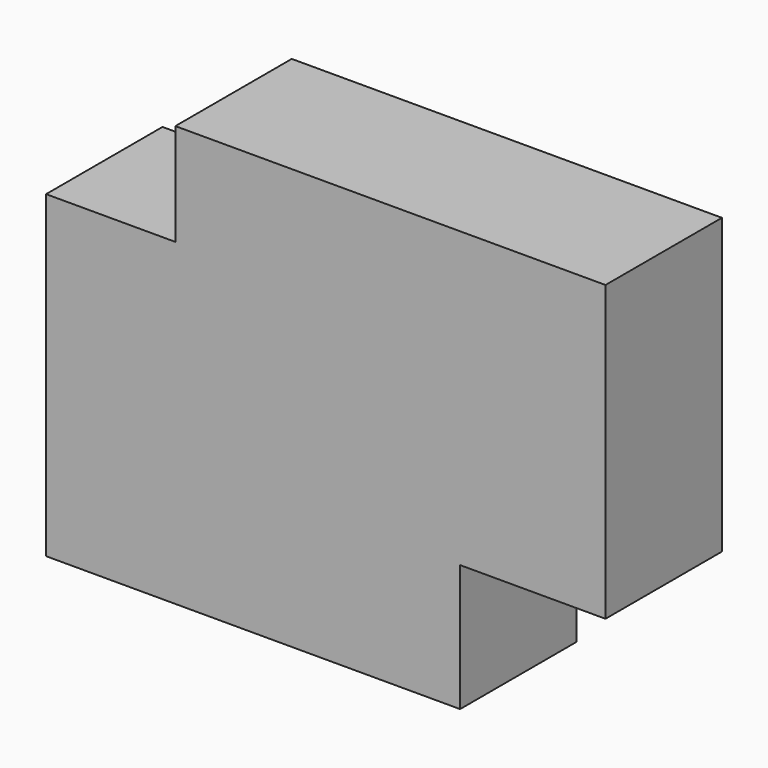
from build123d import *

# Parameters (mm, degrees)
F0_W     = 49.7014243156
F0_H     = 33.4998108447
F1_DEPTH = 25.4


with BuildPart() as f1:
    # F0 (on Front) → F1 (new body)
    with BuildSketch(Plane.XZ):
        Polygon((-45.1190248132, 60.9986558557), (-45.1190248132, 43.2065278292), (4.5823995024, 43.2065278292), (4.5823995024, 9.7067169845), (29.9618467689, 9.7067169845), (29.9618467689, 60.9986558557), align=None)
        Polygon((-45.1190248132, 43.2065278292), (-67.6785334945, 43.2065278292), (-67.6785334945, -12.4243786559), (4.5823995024, -12.4243786559), (4.5823995024, 9.7067169845), (-45.1190248132, 9.7067169845), align=None)
        with Locations((-20.2683126554, 26.4566224068)):
            Rectangle(F0_W, F0_H)
    extrude(amount=F1_DEPTH)


solid = f1.part
